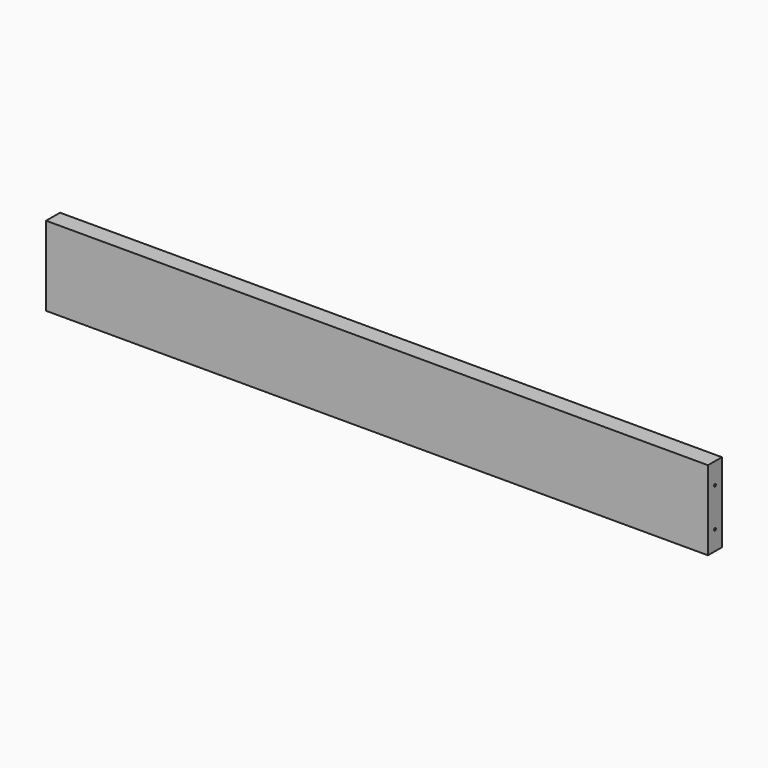
from build123d import *

# Parameters (mm, degrees)
F0_W     = 684
F0_H     = 82
F1_DEPTH = 18
F3_D     = 2.5
F3_DEPTH = 13.5
F3_TIP   = 0.7510757738
F5_D     = 2.5
F5_DEPTH = 14
F5_TIP   = 0.7510757738


with BuildPart() as f1:
    # F0 (on Front) → F1 (new body)
    with BuildSketch(Plane.XZ):
        with Locations((342, 41)):
            Rectangle(F0_W, F0_H)
    extrude(amount=F1_DEPTH)

    # F3
    with Locations(Plane(origin=(0, 0, 0), x_dir=(0, -1, 0), z_dir=(-1, 0, 0))):
        with Locations((9, 20), (9, 60)):
            Hole(F3_D / 2, depth=F3_DEPTH)
            with Locations((0, 0, -(F3_DEPTH + F3_TIP / 2))):  # 118° drill point
                Cone(0, F3_D / 2, F3_TIP, mode=Mode.SUBTRACT)

    # F5
    with Locations(Plane.YZ.offset(684)):
        with Locations((-9, 20), (-9, 60)):
            Hole(F5_D / 2, depth=F5_DEPTH)
            with Locations((0, 0, -(F5_DEPTH + F5_TIP / 2))):  # 118° drill point
                Cone(0, F5_D / 2, F5_TIP, mode=Mode.SUBTRACT)


solid = f1.part
